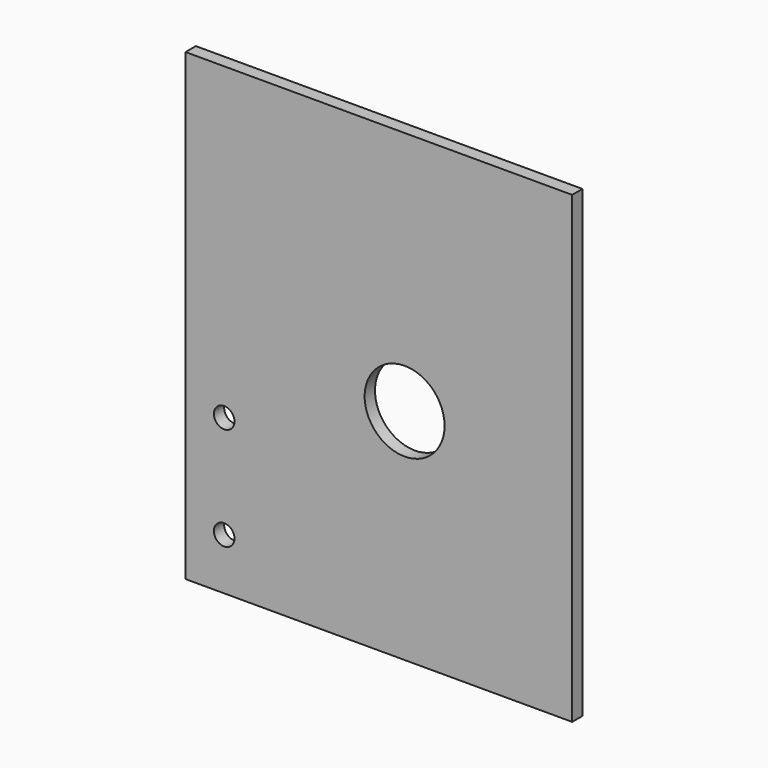
from build123d import *

# Parameters (mm, degrees)
F0_W     = 150
F0_H     = 180
F0_R     = 15.5
F1_DEPTH = 5
F3_D     = 8


with BuildPart() as f1:
    # F0 (on Front) → F1 (new body)
    with BuildSketch(Plane.XZ):
        with Locations((-10, 18.98652)):
            Rectangle(F0_W, F0_H)
        with Locations((0, 13.98652)):
            Circle(F0_R, mode=Mode.SUBTRACT)
    extrude(amount=F1_DEPTH)

    # F3 (through all)
    with Locations(Plane.XZ.offset(5)):
        with Locations((-70, -11.01348), (-70, -51.01348)):
            Hole(F3_D / 2)


solid = f1.part
